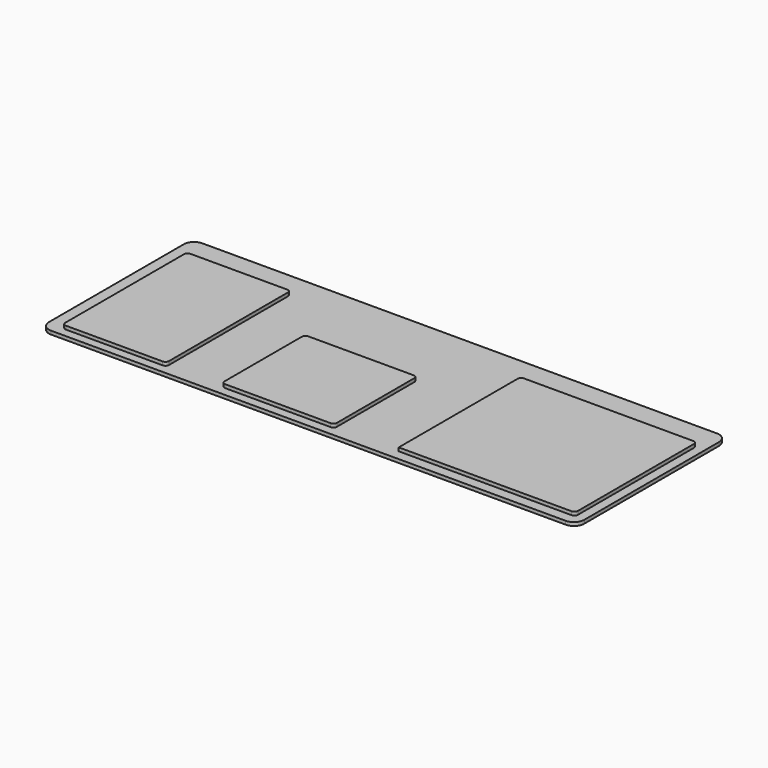
from build123d import *

# Parameters (mm, degrees)
F1_DEPTH = 10
F5_DEPTH = 10
F6_DEPTH = 10
F7_DEPTH = 10


with BuildPart() as f1:
    # F0 (on Top) → F1 (new body)
    with BuildSketch(Plane.XY):
        with BuildLine():
            Line((744, 273.5), (-744, 273.5))
            ThreePointArc((-744, 273.5), (-765.213203, 264.713203), (-774, 243.5))
            Line((-774, 243.5), (-774, -243.5))
            ThreePointArc((-774, -243.5), (-765.213203, -264.713203), (-744, -273.5))
            Line((-744, -273.5), (744, -273.5))
            ThreePointArc((744, -273.5), (765.213203, -264.713203), (774, -243.5))
            Line((774, -243.5), (774, 243.5))
            ThreePointArc((774, 243.5), (765.213203, 264.713203), (744, 273.5))
        make_face()
    extrude(amount=-F1_DEPTH)

    # F2 (on face) → F5 (join)
    with BuildSketch(Plane.XY):
        with BuildLine():
            Line((237.563882, 186.23467), (237.563882, -243.76533))
            Line((237.563882, -243.76533), (737.563882, -243.76533))
            ThreePointArc((737.563882, -243.76533), (744.63495, -240.836398), (747.563882, -233.76533))
            Line((747.563882, -233.76533), (747.563882, 186.23467))
            ThreePointArc((747.563882, 186.23467), (744.63495, 193.305738), (737.563882, 196.23467))
            Line((737.563882, 196.23467), (247.563882, 196.23467))
            ThreePointArc((247.563882, 196.23467), (240.492814, 193.305738), (237.563882, 186.23467))
        make_face()
    extrude(amount=F5_DEPTH)

    # F3 (on face) → F6 (join)
    with BuildSketch(Plane.XY):
        with BuildLine():
            Line((-441.157219, 201.522775), (-721.157219, 201.522775))
            ThreePointArc((-721.157219, 201.522775), (-728.228287, 198.593843), (-731.157219, 191.522775))
            Line((-731.157219, 191.522775), (-731.157219, -238.477225))
            ThreePointArc((-731.157219, -238.477225), (-728.228287, -245.548292), (-721.157219, -248.477225))
            Line((-721.157219, -248.477225), (-441.157219, -248.477225))
            ThreePointArc((-441.157219, -248.477225), (-434.086152, -245.548292), (-431.157219, -238.477225))
            Line((-431.157219, -238.477225), (-431.157219, 191.522775))
            ThreePointArc((-431.157219, 191.522775), (-434.086152, 198.593843), (-441.157219, 201.522775))
        make_face()
    extrude(amount=F6_DEPTH)

    # F4 (on face) → F7 (join)
    with BuildSketch(Plane.XY):
        with BuildLine():
            Line((43.649018, 52.653256), (-261.350982, 52.653256))
            ThreePointArc((-261.350982, 52.653256), (-268.42205, 49.724324), (-271.350982, 42.653256))
            Line((-271.350982, 42.653256), (-271.350982, -237.346744))
            ThreePointArc((-271.350982, -237.346744), (-268.42205, -244.417812), (-261.350982, -247.346744))
            Line((-261.350982, -247.346744), (43.649018, -247.346744))
            ThreePointArc((43.649018, -247.346744), (50.720086, -244.417812), (53.649018, -237.346744))
            Line((53.649018, -237.346744), (53.649018, 42.653256))
            ThreePointArc((53.649018, 42.653256), (50.720086, 49.724324), (43.649018, 52.653256))
        make_face()
    extrude(amount=F7_DEPTH)


solid = f1.part
